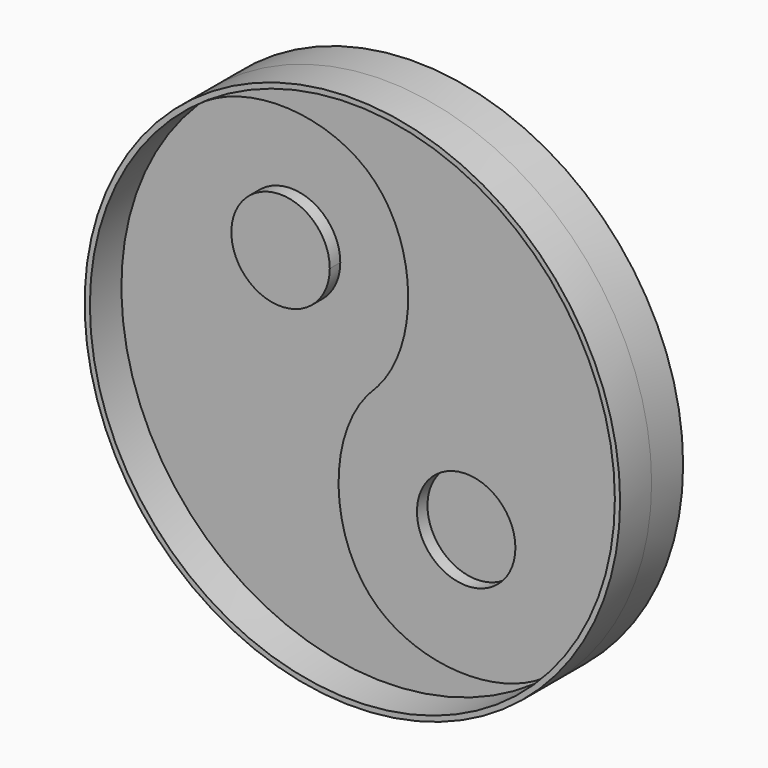
from build123d import *

# Parameters (mm, degrees)
F1_DEPTH = 3.175
F0_R     = 11.90625
F2_R     = 64.77
F2_R_2   = 63.5
F3_DEPTH = 9.525
F4_DEPTH = 3.175
F5_DEPTH = 9.525


with BuildPart() as f1:
    # F0 (on Front) → F1 (new body)
    with BuildSketch(Plane.XZ):
        with BuildLine():
            add(Edge.make_bspline(
                [(-44.9012806053, 44.9012806053), (-56.1266007567, 33.675960454), (-56.1266007567, -11.2253201513), (-11.2253201513, -11.2253201513), (0, 0)],
                knots=[0, 0, 0, 0, 0.25, 0.5, 0.5, 0.5, 0.5], degree=3))
            ThreePointArc((-44.9012806053, 44.9012806053), (-44.9012805685, -44.9012806421), (44.9012806789, -44.9012805317))
            add(Edge.make_bspline(
                [(44.9012806544, -44.9012805563), (33.6759605031, -56.1266007567), (-11.2253201513, -56.1266007567), (-11.2253201513, -11.2253201513), (0, 0)],
                knots=[0.5, 0.5, 0.5, 0.5, 0.75, 1, 1, 1, 1], degree=3))
        make_face()
        with BuildLine():
            Line((-30.8696304162, 30.8696304162), (-44.9012806053, 44.9012806053))
            add(Edge.make_bspline(
                [(-44.9012806053, 44.9012806053), (-56.1266007567, 33.675960454), (-56.1266007567, -11.2253201513), (-11.2253201513, -11.2253201513), (0, 0)],
                knots=[0, 0, 0, 0, 0.25, 0.5, 0.5, 0.5, 0.5], degree=3))
            Line((0, 0), (-14.0316501892, 14.0316501892))
            ThreePointArc((-14.0316501892, 14.0316501892), (-30.8696304162, 14.0316501892), (-30.8696304162, 30.8696304162))
        make_face()
        with BuildLine():
            add(Edge.make_bspline(
                [(0, 0), (11.2253201513, 11.2253201513), (11.2253201513, 56.1266007567), (-33.675960454, 56.1266007567), (-44.9012806053, 44.9012806053)],
                knots=[0.5, 0.5, 0.5, 0.5, 0.75, 1, 1, 1, 1], degree=3))
            Line((-44.9012806053, 44.9012806053), (-30.8696304162, 30.8696304162))
            ThreePointArc((-30.8696304162, 30.8696304162), (-17.8943156861, 33.4505809866), (-10.5443903027, 22.4506403027))
            ThreePointArc((-10.5443903027, 22.4506403027), (-11.4506996187, 17.8943156861), (-14.0316501892, 14.0316501892))
            Line((-14.0316501892, 14.0316501892), (0, 0))
        make_face()
    extrude(amount=-F1_DEPTH)

    # F2 (on Front) → F3 (join)
    with BuildSketch(Plane.XZ):
        Circle(F2_R)
        Circle(F2_R_2, mode=Mode.SUBTRACT)
    extrude(amount=F3_DEPTH)


with BuildPart() as f1b:
    # F0 (on Front) → F1, piece 2 (new body)
    with BuildSketch(Plane.XZ):
        with Locations((22.4506403027, -22.4506403027)):
            Circle(F0_R)
    extrude(amount=-F1_DEPTH)


with BuildPart() as f4:
    # F0 (on Front) → F4 (new body)
    with BuildSketch(Plane.XZ):
        with BuildLine():
            ThreePointArc((44.9012806789, -44.9012805317), (58.6663503344, -24.3003979071), (63.5, 0))
            ThreePointArc((63.5, 0), (24.3003979552, 58.6663503145), (-44.9012806053, 44.9012806053))
            add(Edge.make_bspline(
                [(0, 0), (11.2253201513, 11.2253201513), (11.2253201513, 56.1266007567), (-33.675960454, 56.1266007567), (-44.9012806053, 44.9012806053)],
                knots=[0.5, 0.5, 0.5, 0.5, 0.75, 1, 1, 1, 1], degree=3))
            add(Edge.make_bspline(
                [(0, 0), (11.2253201513, 11.2253201513), (56.1266007567, 11.2253201513), (56.1266007567, -33.6759604049), (44.9012806544, -44.9012805563)],
                knots=[0, 0, 0, 0, 0.25, 0.5, 0.5, 0.5, 0.5], degree=3))
        make_face()
        with BuildLine():
            add(Edge.make_bspline(
                [(44.9012806544, -44.9012805563), (33.6759605031, -56.1266007567), (-11.2253201513, -56.1266007567), (-11.2253201513, -11.2253201513), (0, 0)],
                knots=[0.5, 0.5, 0.5, 0.5, 0.75, 1, 1, 1, 1], degree=3))
            add(Edge.make_bspline(
                [(0, 0), (11.2253201513, 11.2253201513), (56.1266007567, 11.2253201513), (56.1266007567, -33.6759604049), (44.9012806544, -44.9012805563)],
                knots=[0, 0, 0, 0, 0.25, 0.5, 0.5, 0.5, 0.5], degree=3))
        make_face()
        with Locations((22.4506403027, -22.4506403027)):
            Circle(F0_R, mode=Mode.SUBTRACT)
    extrude(amount=F4_DEPTH)


with BuildPart() as f4b:
    # F0 (on Front) → F4, piece 2 (new body)
    with BuildSketch(Plane.XZ):
        with BuildLine():
            Line((-22.4506403027, 22.4506403027), (-30.8696304162, 30.8696304162))
            ThreePointArc((-30.8696304162, 30.8696304162), (-30.8696304162, 14.0316501892), (-14.0316501892, 14.0316501892))
            Line((-14.0316501892, 14.0316501892), (-22.4506403027, 22.4506403027))
        make_face()
        with BuildLine():
            ThreePointArc((-10.5443903027, 22.4506403027), (-17.8943156861, 33.4505809866), (-30.8696304162, 30.8696304162))
            Line((-30.8696304162, 30.8696304162), (-22.4506403027, 22.4506403027))
            Line((-22.4506403027, 22.4506403027), (-14.0316501892, 14.0316501892))
            ThreePointArc((-14.0316501892, 14.0316501892), (-11.4506996187, 17.8943156861), (-10.5443903027, 22.4506403027))
        make_face()
    extrude(amount=F4_DEPTH)


with BuildPart() as f5:
    # F2 (on Front) → F5 (new body)
    with BuildSketch(Plane.XZ):
        Circle(F2_R)
        Circle(F2_R_2, mode=Mode.SUBTRACT)
    extrude(amount=-F5_DEPTH)


solid = Compound([f1.part, f1b.part, f4.part, f4b.part, f5.part])
